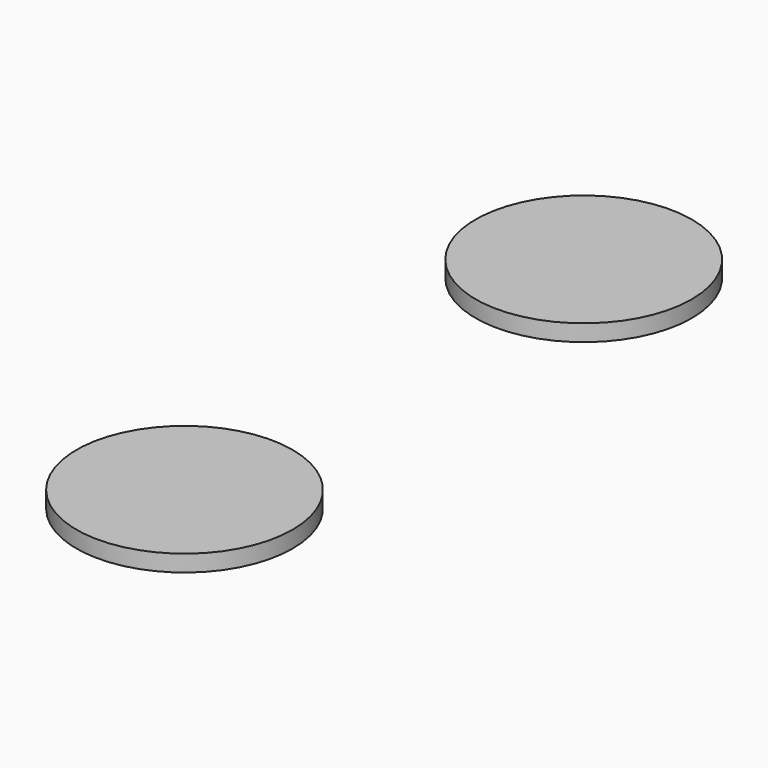
from build123d import *

# Parameters (mm, degrees)
CYLINDER017_R     = 6.5
CYLINDER017_DEPTH = 1
CYLINDER016_R     = 6.5
CYLINDER016_DEPTH = 1


with BuildPart() as cylinder017:
    # Cylinder017 → Cylinder017 (new body)
    with BuildSketch(Plane(origin=(-40, -15, 0), x_dir=(1, 0, 0), z_dir=(0, 0, 1))):
        Circle(CYLINDER017_R)
    extrude(amount=CYLINDER017_DEPTH)


with BuildPart() as fusion006:
    # Cylinder016 → Cylinder016 (new body)
    with BuildSketch(Plane(origin=(-40, 15, 0), x_dir=(1, 0, 0), z_dir=(0, 0, 1))):
        Circle(CYLINDER016_R)
    extrude(amount=CYLINDER016_DEPTH)

    # Fusion006: union Cylinder017
    add(cylinder017.part)


with BuildPart() as fusion006_1:
    # Fusion006 placement: moved
    add(fusion006.part.moved(Location((0, 0, 5))))


solid = fusion006_1.part
